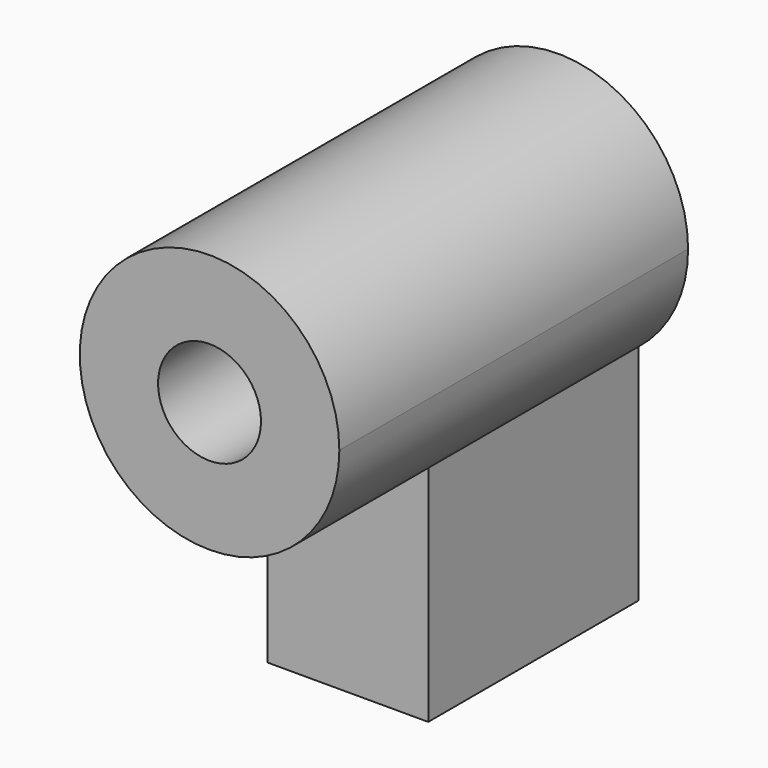
from build123d import *

# Parameters (mm, degrees)
F0_R     = 17.540936
F1_DEPTH = 148.59
F2_DEPTH = 89.662


with BuildPart() as f1:
    # F0 (on Front) → F1 (new body)
    with BuildSketch(Plane.XZ):
        with BuildLine():
            ThreePointArc((27.404567, -34.726441), (39.807281, -19.295502), (44.237269, 0))
            ThreePointArc((44.237269, 0), (-19.295502, 39.807281), (-27.404567, -34.726441))
            ThreePointArc((-27.404567, -34.726441), (0, -44.237269), (27.404567, -34.726441))
        make_face()
        Circle(F0_R, mode=Mode.SUBTRACT)
    extrude(amount=F1_DEPTH)

    # F0 (on Front) → F2 (join)
    with BuildSketch(Plane.XZ):
        with BuildLine():
            ThreePointArc((27.404567, -34.726441), (39.807281, -19.295502), (44.237269, 0))
            ThreePointArc((44.237269, 0), (-19.295502, 39.807281), (-27.404567, -34.726441))
            ThreePointArc((-27.404567, -34.726441), (0, -44.237269), (27.404567, -34.726441))
        make_face()
        Circle(F0_R, mode=Mode.SUBTRACT)
        with BuildLine():
            ThreePointArc((27.404567, -34.726441), (0, -44.237269), (-27.404567, -34.726441))
            Line((-27.404567, -34.726441), (-27.404567, -110.926441))
            Line((-27.404567, -110.926441), (27.404567, -110.926441))
            Line((27.404567, -110.926441), (27.404567, -34.726441))
        make_face()
    extrude(amount=F2_DEPTH)


solid = f1.part
